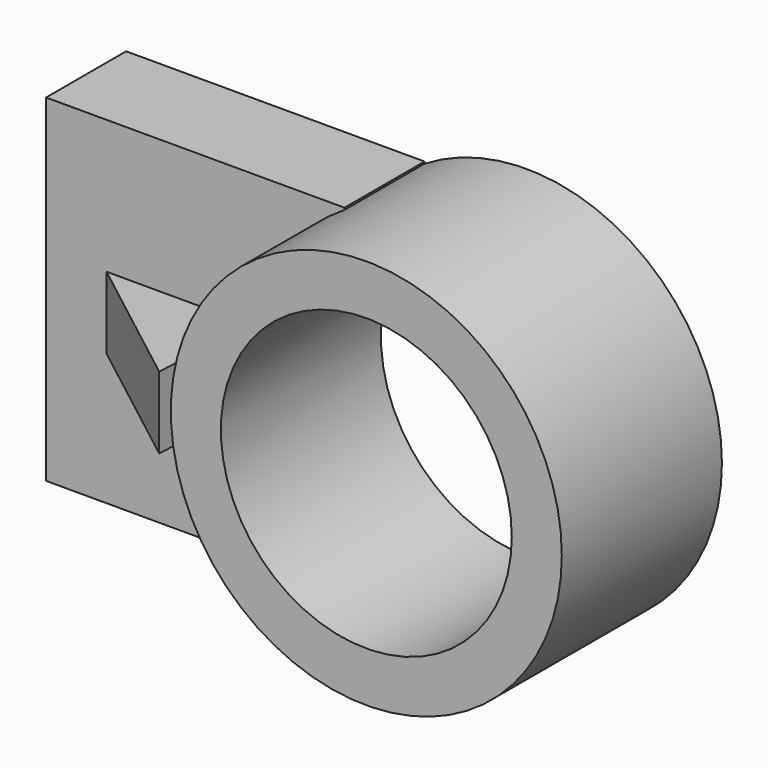
from build123d import *

# Parameters (mm, degrees)
F0_W          = 75.738184
F0_H          = 85.667274
F2_DEPTH      = 25.4
F1_R          = 49.61766
F3_DEPTH      = 50.8
F4_R          = 36.918928
F5_DEPTH      = 50.801
F7_DEPTH      = 8.89
F7_DEPTH_BACK = 9.398


with BuildPart() as f2:
    # F0 (on Front) → F2 (new body)
    with BuildSketch(Plane.XZ):
        with Locations((-38.330909, 0)):
            Rectangle(F0_W, F0_H)
    extrude(amount=F2_DEPTH)

    # F1 (on Front) → F3 (join)
    with BuildSketch(Plane.XZ):
        with Locations((25.399998, 0)):
            Circle(F1_R)
    extrude(amount=F3_DEPTH)

    # F4 (on face) → F5 (cut, through all)
    with BuildSketch(Plane.XZ.offset(50.8)):
        with Locations((25.399998, 0)):
            Circle(F4_R)
    extrude(amount=-F5_DEPTH, mode=Mode.SUBTRACT)

    # F6 (on Top) → F7 (join, two sides)
    with BuildSketch(Plane.XY) as f7_sk:
        Polygon((-61.508864, -24.901086), (-25.902238, -52.381378), (-24.69754, -24.901086), align=None)
    extrude(amount=F7_DEPTH)
    extrude(f7_sk.sketch, amount=-F7_DEPTH_BACK)


solid = f2.part
